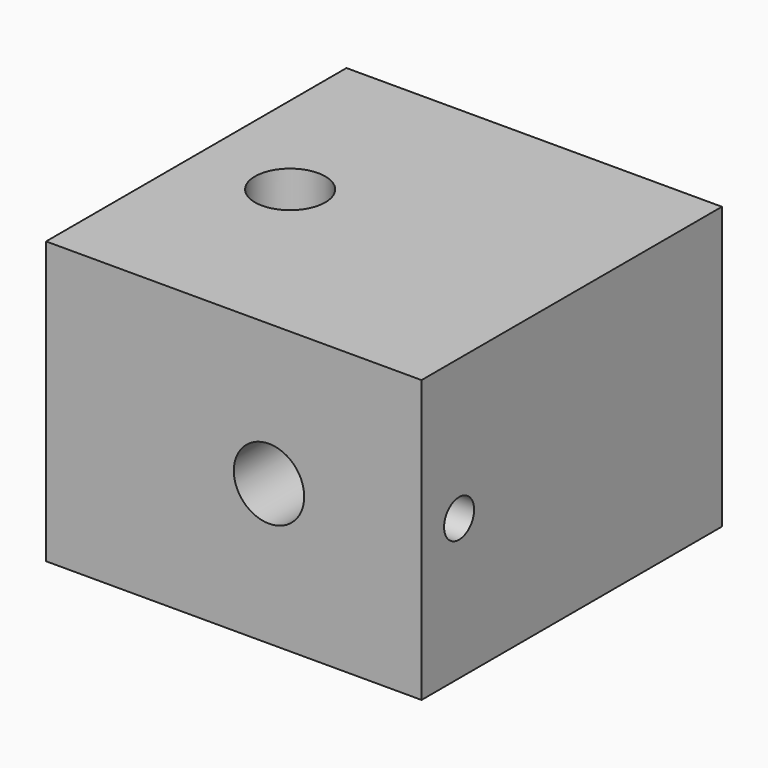
from build123d import *

# Parameters (mm, degrees)
F0_W     = 50.8
F0_H     = 38.1
F1_DEPTH = 50.8
F2_R     = 4.7625
F3_DEPTH = 50.801
F4_R     = 4.7625
F5_DEPTH = 38.101
F6_R     = 2.54
F7_DEPTH = 12.7
F8_R     = 2.54
F9_DEPTH = 19.05


with BuildPart() as f1:
    # F0 (on Front) → F1 (new body)
    with BuildSketch(Plane.XZ):
        Rectangle(F0_W, F0_H)
    extrude(amount=F1_DEPTH)

    # F2 (on face) → F3 (cut, through all)
    with BuildSketch(Plane(origin=(0, 0, 0), x_dir=(-1, 0, 0), z_dir=(0, 1, 0))):
        with Locations((-4.7625, 0)):
            Circle(F2_R)
    extrude(amount=-F3_DEPTH, mode=Mode.SUBTRACT)

    # F4 (on face) → F5 (cut, through all)
    with BuildSketch(Plane.XY.offset(19.05)):
        with Locations((-12.7, -25.4)):
            Circle(F4_R)
    extrude(amount=-F5_DEPTH, mode=Mode.SUBTRACT)

    # F6 (on face) → F7 (cut)
    with BuildSketch(Plane(origin=(-25.4, 0, 0), x_dir=(0, -1, 0), z_dir=(-1, 0, 0))):
        with Locations((25.4, 12.7)):
            Circle(F6_R)
    extrude(amount=-F7_DEPTH, mode=Mode.SUBTRACT)

    # F8 (on face) → F9 (cut)
    with BuildSketch(Plane.YZ.offset(25.4)):
        with Locations((-44.45, 0)):
            Circle(F8_R)
    extrude(amount=-F9_DEPTH, mode=Mode.SUBTRACT)


solid = f1.part
